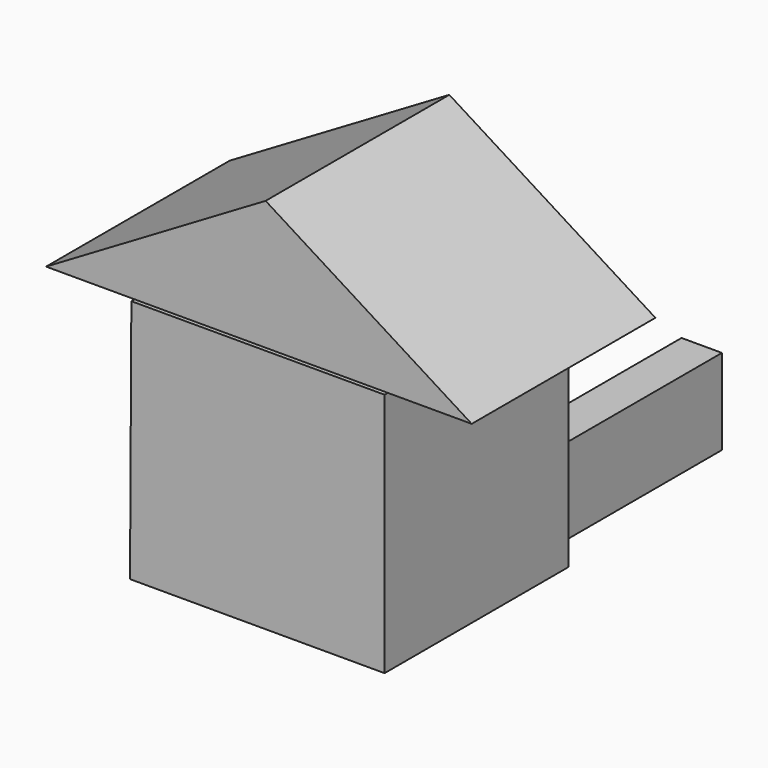
from build123d import *

# Parameters (mm, degrees)
F1_DEPTH = 50.8
F3_DEPTH = 50.8
F4_W     = 8.939667
F4_H     = 18.922292
F5_DEPTH = 50.8


with BuildPart() as f1:
    # F0 (on Front) → F1 (new body)
    with BuildSketch(Plane.XZ):
        Polygon((34.062963, 35.311677), (-21.958938, 35.311677), (-22.256928, -18.922292), (34.062963, -18.922292), align=None)
    extrude(amount=F1_DEPTH)

    # F4 (on face) → F5 (join)
    with BuildSketch(Plane(origin=(0, 0, 0), x_dir=(-1, 0, 0), z_dir=(0, 1, 0))):
        with Locations((-22.945141, -9.461146)):
            Rectangle(F4_W, F4_H)
    extrude(amount=F5_DEPTH)


with BuildPart() as f3:
    # F2 (on Front) → F3 (new body)
    with BuildSketch(Plane.XZ):
        Polygon((7.747712, 64.514577), (-40.824469, 35.907652), (53.339999, 35.907652), align=None)
    extrude(amount=F3_DEPTH)


solid = Compound([f1.part, f3.part])
